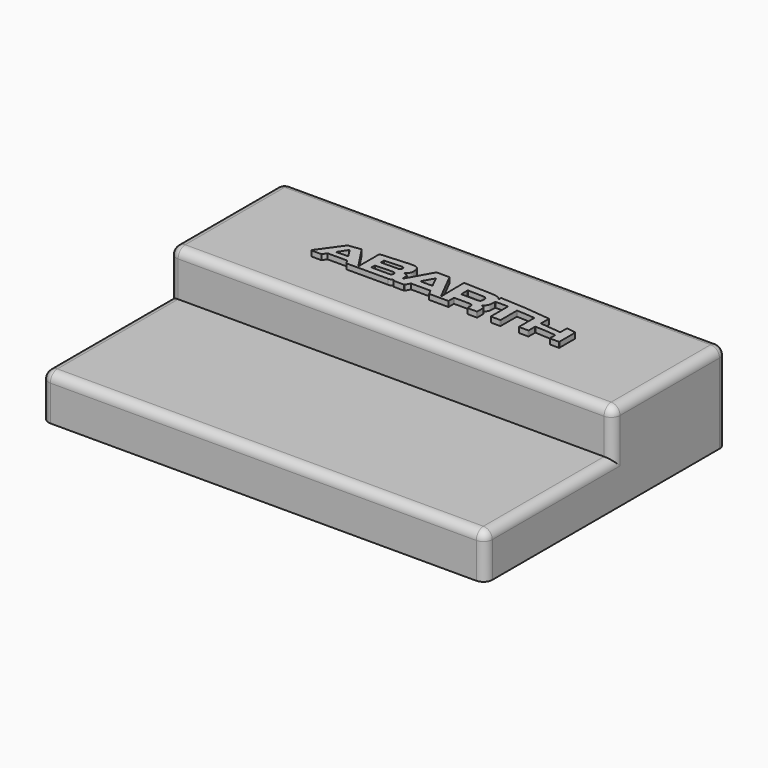
from build123d import *

# Parameters (mm, degrees)
F0_W     = 250
F0_H     = 80
F1_DEPTH = 25
F3_DEPTH = 3
F4_W     = 250
F4_H     = 90
F4_H_2   = 80
F5_DEPTH = 25
F6_R     = 5


with BuildPart() as f1:
    # F0 (on Top) → F1 (new body)
    with BuildSketch(Plane.XY):
        Rectangle(F0_W, F0_H)
    extrude(amount=F1_DEPTH)

    # F4 (on face) → F5 (join)
    with BuildSketch(Plane(origin=(0, 0, 0), x_dir=(1, 0, 0), z_dir=(0, 0, -1))):
        with Locations((0, 85)):
            Rectangle(F4_W, F4_H)
        Rectangle(F4_W, F4_H_2)
    extrude(amount=F5_DEPTH)

    # F6
    f6_edges = [f1.edges().sort_by_distance(p)[0] for p in [
        (0, -40, 25),
        (125, 0, 25),
        (-125, 0, 25),
        (0, 40, 25),
        (125, 40, 0),
        (125, -40, 12.5),
        (125, -85, 0),
        (-125, -40, 12.5),
        (-125, -85, 0),
        (-125, 40, 0),
        (-125, -130, -12.5),
        (0, -130, 0),
        (125, -130, -12.5),
    ]]
    fillet(f6_edges, radius=F6_R)


with BuildPart() as f3:
    # F2 (on face) → F3 (new body)
    with BuildSketch(Plane.XY.offset(25)):
        with BuildLine():
            ThreePointArc((-69.8006175541, -8.7419043521), (-69.8157974226, -8.9497106731), (-69.6379376296, -9.0582454117))
            Line((-69.6379376296, -9.0582454117), (-64.0573430855, -9.0582454117))
            ThreePointArc((-64.0573430855, -9.0582454117), (-63.9621852548, -9.0341572853), (-63.8899491627, -8.9676952843))
            Line((-63.8899491627, -8.9676952843), (-62.4970608678, -6.8373955391))
            ThreePointArc((-62.4970608678, -6.8373955391), (-62.4248247757, -6.7709335381), (-62.329666945, -6.7468454117))
            Line((-62.329666945, -6.7468454117), (-51.4755189067, -6.7468454117))
            ThreePointArc((-51.4755189067, -6.7468454117), (-51.3777558043, -6.7723679753), (-51.3049443518, -6.8424216537))
            Line((-51.3049443518, -6.8424216537), (-50.0187082969, -8.9434678792))
            ThreePointArc((-50.0187082969, -8.9434678792), (-49.9457790913, -9.0135874848), (-49.8478638367, -9.0390439391))
            Line((-49.8478638367, -9.0390439391), (-26.4968549574, -9.0075311066))
            add(Edge.make_bspline(
                [(-23.8160198011, -8.2099686583), (-24.0277128289, -8.3576700962), (-24.5170101552, -8.6852015515), (-25.5168592978, -8.9815940167), (-26.1755019721, -8.9970320181), (-26.4968549574, -9.0075311066)],
                knots=[0.0477448324, 0.0477448324, 0.0477448324, 0.0477448324, 0.3217851654, 0.6687293379, 1, 1, 1, 1], degree=3))
            ThreePointArc((-23.8160198011, -8.2099686583), (-23.6102326163, -8.1960700285), (-23.501595806, -8.3713970965))
            Line((-23.501595806, -8.3713970965), (-23.4964690091, -8.7666731369))
            ThreePointArc((-23.4964690091, -8.7666731369), (-23.438052051, -8.9053556639), (-23.2994895557, -8.9640567642))
            Line((-23.2994895557, -8.9640567642), (-17.4617979319, -9.0517407881))
            ThreePointArc((-17.4617979319, -9.0517407881), (-17.3578479879, -9.0244186699), (-17.2830515363, -8.9472333099))
            Line((-17.2830515363, -8.9472333099), (-15.8412198688, -6.2930860362))
            ThreePointArc((-15.8412198688, -6.2930860362), (-15.8044684997, -6.2548748195), (-15.753348534, -6.2408210185))
            Line((-15.753348534, -6.2408210185), (-4.9273755991, -6.2408210185))
            ThreePointArc((-4.9273755991, -6.2408210185), (-4.8225301227, -6.2705053525), (-4.7488073277, -6.3507467577))
            Line((-4.7488073277, -6.3507467577), (-3.4119773528, -9.0009535502))
            Line((-3.4119773528, -9.0009535502), (7.3006265333, -8.9886260428))
            ThreePointArc((7.3006265333, -8.9886260428), (7.4421279761, -8.9297366133), (7.5003953331, -8.7879778804))
            Line((7.5003953331, -8.7879778804), (7.4889953844, -5.2710937065))
            ThreePointArc((7.4889953844, -5.2710937065), (7.5473439561, -5.1292534483), (7.6889943337, -5.0704454117))
            Line((7.6889943337, -5.0704454117), (15.9401949847, -5.0704454117))
            add(Edge.make_bspline(
                [(18.1817449847, -6.7277954117), (18.1812939057, -6.4467437376), (18.1787663064, -5.8767450674), (17.514722564, -5.1486842131), (16.6076424575, -5.0965734338), (16.152329795, -5.0788395252), (15.9401949847, -5.0704454117)],
                knots=[0, 0, 0, 0, 0.2525016179, 0.5136309871, 0.7734960757, 1, 1, 1, 1], degree=3))
            Line((18.1817449847, -6.7277954117), (18.1817449847, -8.8201454117))
            ThreePointArc((18.1817449847, -8.8201454117), (18.2403236285, -8.9615667679), (18.3817449847, -9.0201454117))
            Line((18.3817449847, -9.0201454117), (23.4617949847, -9.0201454117))
            ThreePointArc((23.4617949847, -9.0201454117), (23.603216341, -8.9615667679), (23.6617949847, -8.8201454117))
            Line((23.6617949847, -8.8201454117), (23.6617949847, -5.0704454117))
            add(Edge.make_bspline(
                [(23.6617949847, -5.0704454117), (23.6488970339, -4.8896913978), (23.6260766845, -4.5201279604), (23.357752753, -3.9609707565), (22.8429549977, -3.5178369213), (22.1885651412, -3.336127135), (22.0028183026, -3.2974275949), (22.0003194413, -3.2969112491)],
                knots=[0, 0, 0, 0, 0.1996102688, 0.4070498025, 0.6327874179, 0.8783429384, 0.881729947, 0.881729947, 0.881729947, 0.881729947], degree=3))
            ThreePointArc((22.0003194413, -3.2969112491), (21.7490924606, -3.0215024907), (21.9328697749, -2.6971710571))
            add(Edge.make_bspline(
                [(24.0794406868, 3.1229421521), (24.0577781804, 2.2631763115), (24.0390820008, 0.710229468), (23.8061124068, -0.7926326347), (22.7652118531, -2.2728627524), (22.1558895835, -2.5954953619), (21.9328697749, -2.6971710571)],
                knots=[0.0077710356, 0.0077710356, 0.0077710356, 0.0077710356, 0.3050186296, 0.5462388266, 0.806804799, 0.9591711478, 0.9591711478, 0.9591711478, 0.9591711478], degree=3))
            ThreePointArc((24.0794406868, 3.1229421521), (24.1397482848, 3.2610959151), (24.279377234, 3.3179045866))
            Line((24.279377234, 3.3179045866), (31.0564987999, 3.3179045883))
            ThreePointArc((31.0564987999, 3.3179045883), (31.1978834377, 3.2593626535), (31.256498773, 3.1180084304))
            Line((31.256498773, 3.1180084304), (31.2626411965, -8.7122992538))
            ThreePointArc((31.2626411965, -8.7122992538), (31.3212565318, -8.8536534769), (31.4626411695, -8.9121954117))
            Line((31.4626411695, -8.9121954117), (36.5554949703, -8.9121954117))
            ThreePointArc((36.5554949703, -8.9121954117), (36.6969163266, -8.8536167679), (36.7554949703, -8.7121954116))
            Line((36.7554949703, -8.7121954116), (36.7554949623, 2.4743047122))
            ThreePointArc((36.7554949623, 2.4743047122), (36.8160997764, 2.6177236168), (36.9611847839, 2.6742237608))
            add(Edge.make_bspline(
                [(36.9611847839, 2.6742237608), (38.7495946478, 2.6233244933), (42.2224802497, 2.5383483636), (45.3907778333, 2.1838139726), (46.9274886714, 2.0185093867)],
                knots=[0.0073937107, 0.0073937107, 0.0073937107, 0.0073937107, 0.5145341109, 0.9925388554, 0.9925388554, 0.9925388554, 0.9925388554], degree=3))
            ThreePointArc((46.9274886714, 2.0185093867), (47.0548512361, 1.9533445514), (47.1060979634, 1.8197726547))
            Line((47.1060979634, 1.8197726547), (47.1122289759, -8.7440614872))
            ThreePointArc((47.1122289759, -8.7440614872), (47.1708486308, -8.8854078009), (47.3122289422, -8.9439454117))
            Line((47.3122289422, -8.9439454117), (52.3733449429, -8.9439454117))
            ThreePointArc((52.3733449429, -8.9439454117), (52.5147662992, -8.8853667679), (52.5733449429, -8.7439454117))
            Line((52.5733449429, -8.7439454117), (52.5733449429, -4.3820132826))
            ThreePointArc((52.5733449429, -4.3820132826), (52.6354743053, -4.2371281996), (52.7832618157, -4.1822592949))
            add(Edge.make_bspline(
                [(64.345828739, -4.9742414516), (63.0363710378, -4.8326594302), (60.3498092555, -4.5273024766), (56.0444649756, -4.342855526), (53.8058889328, -4.2330280587), (52.7832618157, -4.1822592949)],
                knots=[0.0059558279, 0.0059558279, 0.0059558279, 0.0059558279, 0.341579628, 0.6941788862, 0.9924088178, 0.9924088178, 0.9924088178, 0.9924088178], degree=3))
            ThreePointArc((64.345828739, -4.9742414516), (64.4730515949, -5.0393599183), (64.524329261, -5.1727640814))
            Line((64.524329261, -5.1727640814), (64.5300770314, -8.7823638826))
            ThreePointArc((64.5300770314, -8.7823638826), (64.588768063, -8.9235793196), (64.7300767779, -8.9820454117))
            Line((64.7300767779, -8.9820454117), (69.6833336572, -8.9820454117))
            ThreePointArc((69.6833336572, -8.9820454117), (69.8247943563, -8.9234274141), (69.8833336262, -8.7819341177))
            Line((69.8833336262, -8.7819341177), (69.8771899317, 2.2585460468))
            ThreePointArc((69.8771899317, 2.2585460468), (69.8293704278, 2.3882080398), (69.7088887946, 2.4559067358))
            Line((69.7088887946, 2.4559067358), (64.7684439614, 3.248962684))
            ThreePointArc((64.7684439614, 3.248962684), (64.6070141894, 3.2037072679), (64.5367451294, 3.0514907011))
            Line((64.5367451294, 3.0514907011), (64.5367451294, -1.2975066782))
            ThreePointArc((64.5367451294, -1.2975066782), (64.4688881449, -1.4476340357), (64.3113628947, -1.4958894954))
            add(Edge.make_bspline(
                [(52.8211230924, -0.3502708036), (55.1396559473, -0.5330948212), (59.4137784096, -0.8709988975), (62.7749094211, -1.2993068317), (64.3113628947, -1.4958894954)],
                knots=[0.0053691865, 0.0053691865, 0.0053691865, 0.0053691865, 0.539738385, 0.9915915948, 0.9915915948, 0.9915915948, 0.9915915948], degree=3))
            ThreePointArc((52.8211230924, -0.3502708036), (52.6899702244, -0.2866387871), (52.6368449544, -0.1508897023))
            Line((52.6368449544, -0.1508897023), (52.6368449877, 5.2726565917))
            ThreePointArc((52.6368449877, 5.2726565917), (52.5858247662, 5.4060920664), (52.4587947305, 5.4714484659))
            add(Edge.make_bspline(
                [(52.4587947305, 5.4714484659), (47.8062215384, 5.9851655696), (38.4541980543, 7.0963478272), (28.8716740922, 7.4741854854), (24.0562979615, 7.7031113959)],
                knots=[0.0023201161, 0.0023201161, 0.0023201161, 0.0023201161, 0.4969653037, 0.9972171587, 0.9972171587, 0.9972171587, 0.9972171587], degree=3))
            ThreePointArc((24.0562979615, 7.7031113959), (23.9066526561, 7.6460204617), (23.8468880323, 7.4974227432))
            Line((23.8468880323, 7.4974227432), (23.8773995255, 6.4660835813))
            ThreePointArc((23.8773995255, 6.4660835813), (23.7375794208, 6.269410552), (23.510279849, 6.350434294))
            add(Edge.make_bspline(
                [(2.4825799108, 8.7783971682), (7.6550106902, 8.5820978033), (15.6601132958, 8.2631632542), (19.8934957215, 8.2626366281), (22.375971447, 7.4906404073), (23.1673287168, 6.8444488178), (23.4261475565, 6.4786296688), (23.510279849, 6.350434294)],
                knots=[0.0019920982, 0.0019920982, 0.0019920982, 0.0019920982, 0.404240995, 0.6257944787, 0.7941895233, 0.906783881, 0.9666231288, 0.9666231288, 0.9666231288, 0.9666231288], degree=3))
            ThreePointArc((2.4825799108, 8.7783971682), (2.1880813614, 8.6649981869), (2.0674454518, 8.3733893703))
            Line((2.0674454518, 8.3733893703), (2.2708167928, -6.9869599154))
            ThreePointArc((2.2708167928, -6.9869599154), (2.1187124638, -7.1837923505), (1.8925421617, -7.0802272557))
            Line((1.8925421617, -7.0802272557), (-6.2255517067, 8.8919574284))
            ThreePointArc((-6.2255517067, 8.8919574284), (-6.2990276617, 8.9716715428), (-6.4033013844, 9.0013371244))
            Line((-6.4033013844, 9.0013371244), (-13.5060566095, 9.0206027436))
            ThreePointArc((-13.5060566095, 9.0206027436), (-13.6073516624, 8.9933718771), (-13.6809341969, 8.9186201651))
            Line((-13.6809341969, 8.9186201651), (-21.4808437504, -4.9545081826))
            ThreePointArc((-21.4808437504, -4.9545081826), (-21.5936839236, -5.0021482571), (-21.6680087965, -4.9047917235))
            add(Edge.make_bspline(
                [(-21.6680087965, -4.9047917235), (-21.663892325, -4.3234792087), (-21.6564638287, -3.2239036175), (-21.6755519796, -2.0302900933), (-22.0348042787, -1.2601445671), (-23.0878919181, -0.7043022138), (-23.6273759621, -0.629453763), (-23.8206001582, -0.6131615091)],
                knots=[0.0364399826, 0.0364399826, 0.0364399826, 0.0364399826, 0.2569642542, 0.4601558977, 0.6237399985, 0.8289860866, 0.9497453257, 0.9497453257, 0.9497453257, 0.9497453257], degree=3))
            ThreePointArc((-23.8206001582, -0.6131615091), (-24.10596377, -0.3552350154), (-23.9332069184, -0.0115585144))
            add(Edge.make_bspline(
                [(-23.9332069184, -0.0115585144), (-23.6626442789, 0.1205399636), (-22.9409938804, 0.5302956328), (-21.9158047362, 2.4807303887), (-22.08212947, 4.5026098033), (-22.4352329089, 6.4996459859), (-23.830712554, 7.6095568267), (-25.2865980316, 8.0074094848), (-28.3880338805, 7.9494378425), (-29.6066201468, 7.8579948629), (-30.1326752115, 7.827426247)],
                knots=[0.0192155949, 0.0192155949, 0.0192155949, 0.0192155949, 0.0990226888, 0.2332148538, 0.3642782687, 0.4915532531, 0.606939336, 0.7194468786, 0.8789856288, 1, 1, 1, 1], degree=3))
            Line((-30.1326752115, 7.827426247), (-43.8685321668, 6.8685918536))
            ThreePointArc((-43.8685321668, 6.8685918536), (-44.0008675024, 6.8054858786), (-44.0546050153, 6.6690773567))
            Line((-44.0546050153, 6.6690773567), (-44.0546050153, -7.4008750792))
            ThreePointArc((-44.0546050153, -7.4008750792), (-44.1971436356, -7.5924427952), (-44.4215869137, -7.5109525318))
            Line((-44.4215869137, -7.5109525318), (-52.9775975502, 5.4680805524))
            ThreePointArc((-52.9775975502, 5.4680805524), (-53.0610930745, 5.5397447442), (-53.1698583776, 5.5563991072))
            Line((-53.1698583776, 5.5563991072), (-60.1307107832, 4.6694715159))
            ThreePointArc((-60.1307107832, 4.6694715159), (-60.2079764117, 4.6427863519), (-60.2681117788, 4.5874165682))
            Line((-60.2681117788, 4.5874165682), (-69.8006175541, -8.7419043521))
        make_face()
        with BuildLine():
            Line((-53.927985773, -3.2774916433), (-59.9805253195, -3.5579597709))
            ThreePointArc((-59.9805253195, -3.5579597709), (-60.1633386901, -3.4575647028), (-60.1574108729, -3.2490826672))
            Line((-60.1574108729, -3.2490826672), (-56.9930887937, 1.61314862))
            ThreePointArc((-56.9930887937, 1.61314862), (-56.8240129578, 1.7040518893), (-56.6562712146, 1.6107097752))
            Line((-56.6562712146, 1.6107097752), (-53.7680537474, -2.9710533845))
            ThreePointArc((-53.7680537474, -2.9710533845), (-53.7599388022, -3.1702425115), (-53.927985773, -3.2774916433))
        make_face(mode=Mode.SUBTRACT)
        with BuildLine():
            Line((-38.72615095, -2.7856870357), (-28.934970307, -2.4477823399))
            add(Edge.make_bspline(
                [(-28.9864519563, -5.2277413424), (-28.7421200012, -5.2390422341), (-28.2478012583, -5.2619055661), (-27.6597253539, -4.7369524452), (-27.2115247481, -3.6768782357), (-27.6697700334, -2.7665457794), (-28.3772132372, -2.4594687297), (-28.7581156354, -2.4514878826), (-28.934970307, -2.4477823399)],
                knots=[0, 0, 0, 0, 0.1585022341, 0.320672853, 0.5177620211, 0.6991801395, 0.8603280056, 1, 1, 1, 1], degree=3))
            Line((-28.9864519563, -5.2277413424), (-38.8002869136, -5.2109127988))
            ThreePointArc((-38.8002869136, -5.2109127988), (-38.9442715344, -5.1493672399), (-38.9997854193, -5.0029512728))
            Line((-38.9997854193, -5.0029512728), (-38.9190942917, -2.9776062201))
            ThreePointArc((-38.9190942917, -2.9776062201), (-38.8602973516, -2.8437708498), (-38.72615095, -2.7856870357))
        make_face(mode=Mode.SUBTRACT)
        with BuildLine():
            Line((-7.3144906331, -2.1182808787), (-13.5497251685, -2.1182808787))
            ThreePointArc((-13.5497251685, -2.1182808787), (-13.7221792628, -2.0195704901), (-13.7244032505, -1.8208767324))
            Line((-13.7244032505, -1.8208767324), (-10.4311450991, 4.0850321983))
            ThreePointArc((-10.4311450991, 4.0850321983), (-10.2518158462, 4.1875739613), (-10.0774486712, 4.0768044604))
            Line((-10.0774486712, 4.0768044604), (-7.1354722871, -1.8291044703))
            ThreePointArc((-7.1354722871, -1.8291044703), (-7.1444387562, -2.0235536632), (-7.3144906331, -2.1182808787))
        make_face(mode=Mode.SUBTRACT)
        with BuildLine():
            Line((-38.7501558481, 1.2627440029), (-38.672634869, 3.208518415))
            ThreePointArc((-38.672634869, 3.208518415), (-38.6148243003, 3.3413657769), (-38.4824813046, 3.4003218188))
            Line((-38.4824813046, 3.4003218188), (-29.2095335152, 3.8500264991))
            add(Edge.make_bspline(
                [(-29.2095335152, 3.8500264991), (-28.8702581839, 3.8525443969), (-28.2454297837, 3.8571899841), (-27.7178982278, 3.3074688267), (-27.6012823436, 2.654156208), (-27.730187678, 1.931844718), (-28.1620472703, 1.4426143496), (-28.5250741144, 1.2202013655), (-28.8678210812, 1.1876550704), (-29.0696465608, 1.175876103), (-29.1699914214, 1.185727283)],
                knots=[0, 0, 0, 0, 0.1619590641, 0.2987250878, 0.4320744424, 0.5731154042, 0.70581686, 0.81274748, 0.9086165425, 1, 1, 1, 1], degree=3))
            Line((-29.1699914214, 1.185727283), (-38.5475223336, 1.0548016728))
            ThreePointArc((-38.5475223336, 1.0548016728), (-38.6935523724, 1.1152010967), (-38.7501558481, 1.2627440029))
        make_face(mode=Mode.SUBTRACT)
        with BuildLine():
            Line((7.8226273927, -0.2253238481), (7.8226273927, 4.0308541918))
            ThreePointArc((7.8226273927, 4.0308541918), (7.8829267509, 4.1739755762), (8.0274646994, 4.2307956845))
            Line((8.0274646994, 4.2307956845), (16.4878314409, 4.0261088643))
            add(Edge.make_bspline(
                [(16.4878314409, 4.0261088643), (16.8930305258, 4.0008530608), (17.6658525171, 3.9526835532), (18.5071162142, 3.3684809438), (18.7951120396, 2.5750384145), (18.7861345569, 2.2385309516), (18.7822451863, 2.0927437354)],
                knots=[0, 0, 0, 0, 0.2976268915, 0.5676533228, 0.8126917663, 1, 1, 1, 1], degree=3))
            Line((18.7822451863, 2.0927437354), (18.7822451863, 0.84653867))
            add(Edge.make_bspline(
                [(18.7822451863, 0.84653867), (18.7862136857, 0.7175110184), (18.7954206024, 0.4181669229), (18.3814642943, -0.229575981), (17.5183144136, -0.5267232592), (16.9320513384, -0.5274289831), (16.6392421398, -0.5277814571)],
                knots=[0, 0, 0, 0, 0.1897759821, 0.4402801957, 0.7204478429, 1, 1, 1, 1], degree=3))
            Line((16.6392421398, -0.5277814571), (8.0202497482, -0.4253097146))
            ThreePointArc((8.0202497482, -0.4253097146), (7.8803678959, -0.3659020667), (7.8226273927, -0.2253238481))
        make_face(mode=Mode.SUBTRACT)
    extrude(amount=F3_DEPTH)


solid = Compound([f1.part, f3.part])
